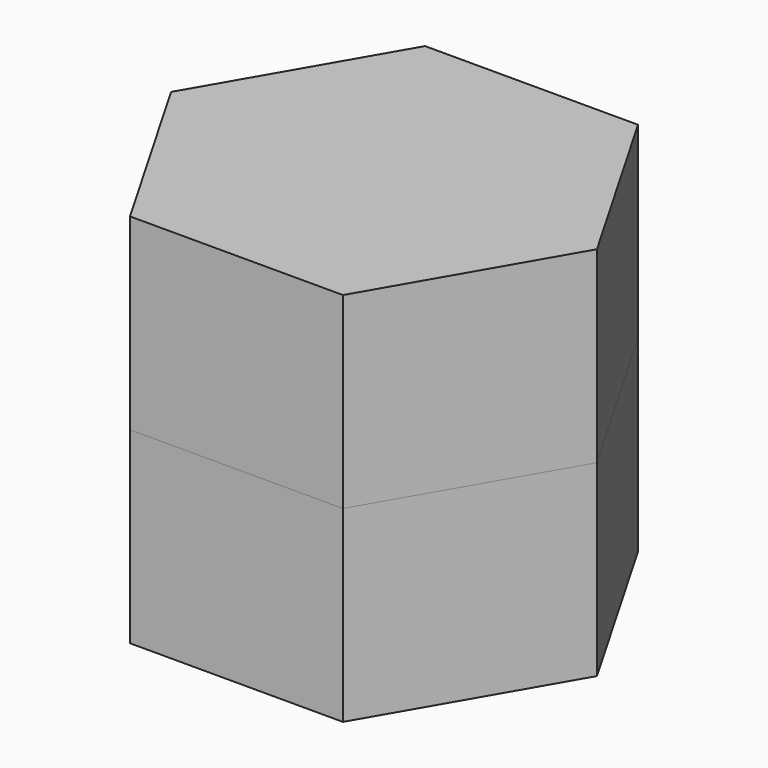
from build123d import *

# Parameters (mm, degrees)
F2_DEPTH = 60
F3_DEPTH = 56


with BuildPart() as f2:
    # F1 (on Top) → F2 (new body)
    with BuildSketch(Plane.XY):
        Polygon((-34, 58.889727), (-68, 0), (-34, -58.889727), (34, -58.889727), (68, 0), (34, 58.889727), align=None)
    extrude(amount=F2_DEPTH)

    # F0 (on Top) → F3 (cut)
    with BuildSketch(Plane.XY):
        Polygon((-30, 51.961524), (-60, 0), (-30, -51.961524), (30, -51.961524), (60, 0), (30, 51.961524), align=None)
    extrude(amount=F3_DEPTH, mode=Mode.SUBTRACT)


with BuildPart() as f4_1:
    # F4: instance of F2
    add(f2.part.mirror(Plane.XY))


solid = Compound([f2.part, f4_1.part])
